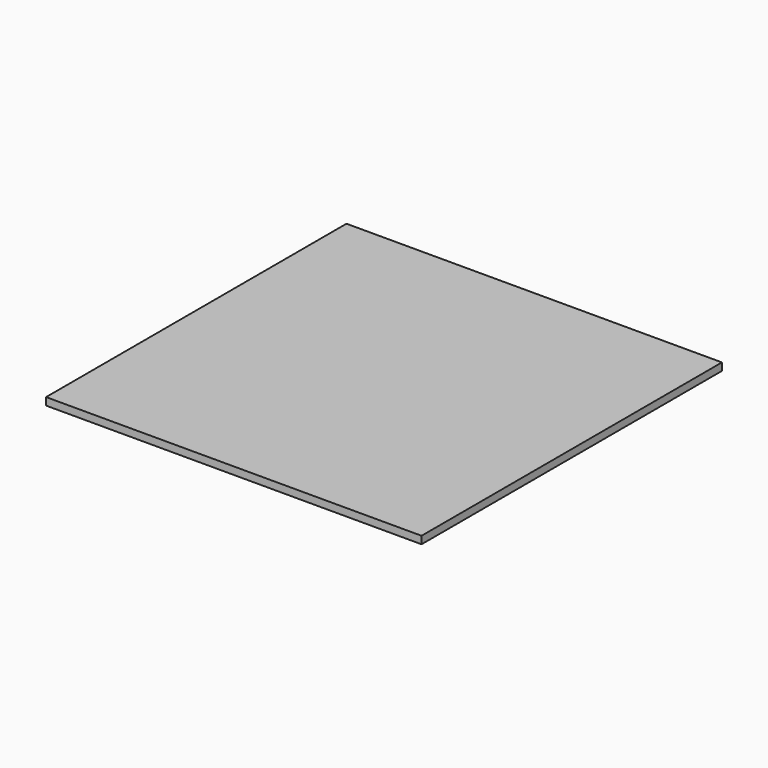
from build123d import *

# Parameters (mm, degrees)
BOX_W     = 20
BOX_H     = 20
BOX_DEPTH = 0.4


with BuildPart() as part:
    # Box → Box (new body)
    with BuildSketch(Plane.XY):
        with Locations((10, 10)):
            Rectangle(BOX_W, BOX_H)
    extrude(amount=BOX_DEPTH)


solid = part.part
